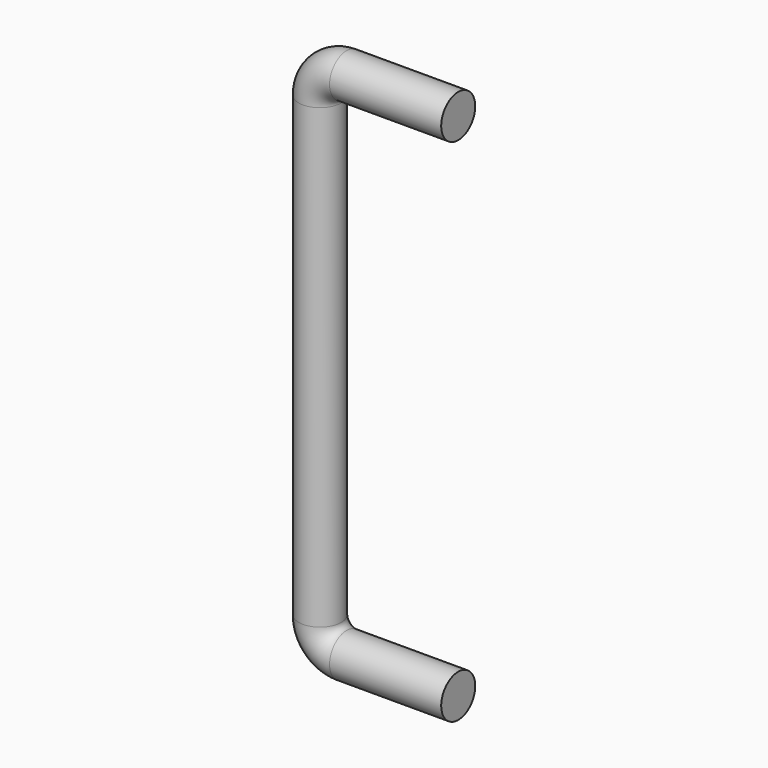
from build123d import *

# Parameters (mm, degrees)
F1_R = 4


with BuildPart() as f2:
    # F2: sweep along a path in F0
    with BuildLine(Plane.XZ) as f2_path:
        Line((0, 0), (-21, 0))
        ThreePointArc((-21, 0), (-24.535534, 1.464466), (-26, 5))
        Line((-26, 5), (-26, 91))
        ThreePointArc((-26, 91), (-24.535534, 94.535534), (-21, 96))
        Line((-21, 96), (0, 96))
    # F1 (on Right) → F2 (sweep)
    with BuildSketch(Plane.YZ):
        Circle(F1_R)
    sweep(path=f2_path.line)


solid = f2.part
